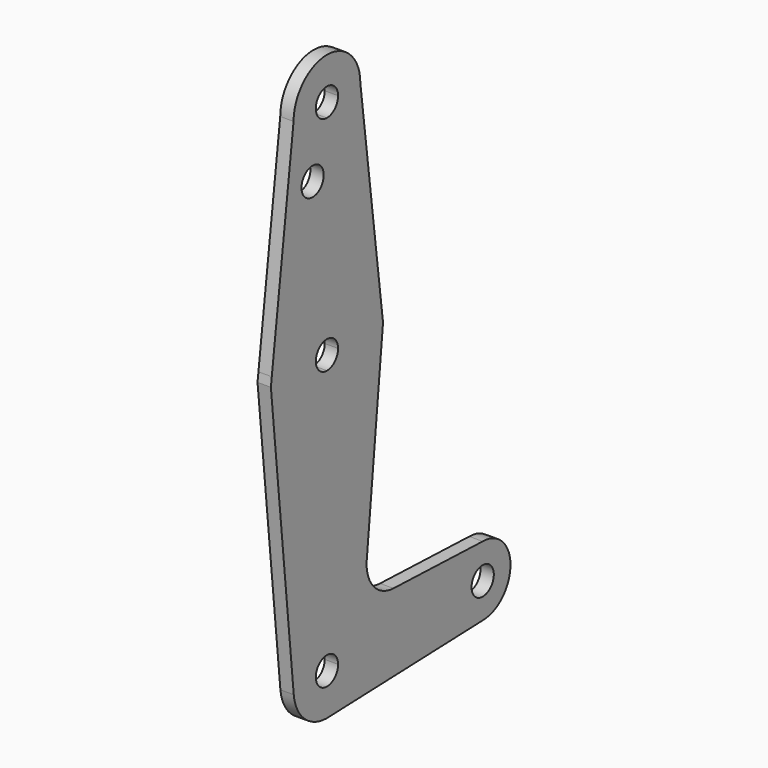
from build123d import *

# Parameters (mm, degrees)
F0_R     = 3.175
F1_DEPTH = 3.048


with BuildPart() as f1:
    # F0 (on Right) → F1 (new body)
    with BuildSketch(Plane.YZ):
        with BuildLine():
            ThreePointArc((0, -3.175), (-3.175, 0), (0, 3.175))
            Line((0, 3.175), (0, 15.875))
            ThreePointArc((0, 15.875), (-10.4912828186, 11.9142188086), (-15.7474568925, 2.0082894261))
            ThreePointArc((-15.7474568925, 2.0082894261), (-11.9142188086, -10.4912828186), (0, -15.875))
            Line((0, -15.875), (0, -3.175))
        make_face()
        with BuildLine():
            Line((0, 15.875), (0, 3.175))
            ThreePointArc((0, 3.175), (2.2450640303, 2.2450640303), (3.175, 0))
            ThreePointArc((3.175, 0), (2.2450640303, -2.2450640303), (0, -3.175))
            Line((0, -3.175), (0, -15.875))
            ThreePointArc((0, -15.875), (11.2253201513, -11.2253201513), (15.875, 0))
            ThreePointArc((15.875, 0), (15.8430821301, 1.0061677891), (15.7474568668, 2.0082896276))
            ThreePointArc((15.7474568668, 2.0082896276), (10.4912827424, 11.9142188757), (0, 15.875))
        make_face()
        with BuildLine():
            ThreePointArc((-15.7474568925, 2.0082894261), (-10.4912828186, 11.9142188086), (0, 15.875))
            Line((0, 15.875), (0, 41.275))
            ThreePointArc((0, 41.275), (-6.7351920908, 44.0648079092), (-9.525, 50.8))
            Line((-9.525, 50.8), (-15.7474568925, 2.0082894261))
        make_face()
        with Locations((-4.0974067524, 36.5252)):
            Circle(F0_R, mode=Mode.SUBTRACT)
        with BuildLine():
            Line((0, 41.275), (0, 15.875))
            ThreePointArc((0, 15.875), (10.4912827424, 11.9142188757), (15.7474568668, 2.0082896276))
            Line((15.7474568668, 2.0082896276), (9.525, 50.8))
            ThreePointArc((9.525, 50.8), (6.7351920908, 44.0648079092), (0, 41.275))
        make_face()
        with BuildLine():
            ThreePointArc((15.875, 0), (11.2253201513, -11.2253201513), (0, -15.875))
            Line((0, -15.875), (0, -53.975))
            ThreePointArc((0, -53.975), (6.7351920908, -56.7648079092), (9.525, -63.5))
            Line((9.525, -63.5), (36.5125, -63.5))
            ThreePointArc((36.5125, -63.5), (38.8373399243, -57.8873399243), (44.45, -55.5625))
            Line((44.45, -55.5625), (18.9804107574, -54.649365332))
            ThreePointArc((18.9804107574, -54.649365332), (13.2726721267, -51.9286927602), (11.3555044926, -45.9033456514))
            Line((11.3555044926, -45.9033456514), (16.0035761028, 0))
            Line((16.0035761028, 0), (15.7474568668, 2.0082896276))
            ThreePointArc((15.7474568668, 2.0082896276), (15.8430821301, 1.0061677891), (15.875, 0))
        make_face()
        with BuildLine():
            Line((0, -53.975), (0, -15.875))
            ThreePointArc((0, -15.875), (-11.9142188086, -10.4912828186), (-15.7474568925, 2.0082894261))
            Line((-15.7474568925, 2.0082894261), (-16.0035761028, 0))
            Line((-16.0035761028, 0), (-9.4765417351, -64.4595737299))
            ThreePointArc((-9.4765417351, -64.4595737299), (-7.0663132105, -57.1130725218), (0, -53.975))
        make_face()
        with BuildLine():
            ThreePointArc((-9.525, 50.8), (-6.7351920908, 44.0648079092), (0, 41.275))
            ThreePointArc((0, 41.275), (6.7351920908, 44.0648079092), (9.525, 50.8))
            ThreePointArc((9.525, 50.8), (0, 60.325), (-9.525, 50.8))
        make_face()
        with BuildLine():
            ThreePointArc((3.175, 50.8), (2.2450640303, 48.5549359697), (0, 47.625))
            ThreePointArc((0, 47.625), (-2.2450640303, 53.0450640303), (3.175, 50.8))
        make_face(mode=Mode.SUBTRACT)
        with BuildLine():
            Line((0, -60.325), (0, -53.975))
            ThreePointArc((0, -53.975), (-7.0663132105, -57.1130725218), (-9.4765417351, -64.4595737299))
            ThreePointArc((-9.4765417351, -64.4595737299), (-6.3869274782, -70.5663132105), (0, -73.025))
            Line((0, -73.025), (0.6773435479, -73.000885786))
            ThreePointArc((0.6773435479, -73.000885786), (6.9705567315, -69.9912990883), (9.525, -63.5))
            Line((9.525, -63.5), (3.175, -63.5))
            ThreePointArc((3.175, -63.5), (-2.2450640303, -65.7450640303), (0, -60.325))
        make_face()
        with BuildLine():
            Line((36.5125, -63.5), (9.525, -63.5))
            ThreePointArc((9.525, -63.5), (6.9705567315, -69.9912990883), (0.6773435479, -73.000885786))
            Line((0.6773435479, -73.000885786), (44.7324052746, -71.4324746146))
            ThreePointArc((44.7324052746, -71.4324746146), (38.9380895153, -69.2116327839), (36.5125, -63.5))
        make_face()
        with BuildLine():
            ThreePointArc((44.45, -55.5625), (38.8373399243, -57.8873399243), (36.5125, -63.5))
            ThreePointArc((36.5125, -63.5), (38.9380895153, -69.2116327839), (44.7324052746, -71.4324746146))
            ThreePointArc((44.7324052746, -71.4324746146), (50.1616327839, -69.0119104847), (52.3875, -63.5))
            ThreePointArc((52.3875, -63.5), (50.0626600757, -57.8873399243), (44.45, -55.5625))
        make_face()
        with BuildLine():
            ThreePointArc((47.625, -63.5), (44.45, -66.675), (41.275, -63.5))
            ThreePointArc((41.275, -63.5), (44.45, -60.325), (47.625, -63.5))
        make_face(mode=Mode.SUBTRACT)
        with BuildLine():
            ThreePointArc((0, -73.025), (0.3388863295, -73.0189695375), (0.6773435479, -73.000885786))
            Line((0.6773435479, -73.000885786), (0, -73.025))
        make_face()
        with BuildLine():
            ThreePointArc((9.525, -63.5), (6.7351920908, -56.7648079092), (0, -53.975))
            Line((0, -53.975), (0, -60.325))
            ThreePointArc((0, -60.325), (2.2450640303, -61.2549359697), (3.175, -63.5))
            Line((3.175, -63.5), (9.525, -63.5))
        make_face()
    extrude(amount=F1_DEPTH)


solid = f1.part
